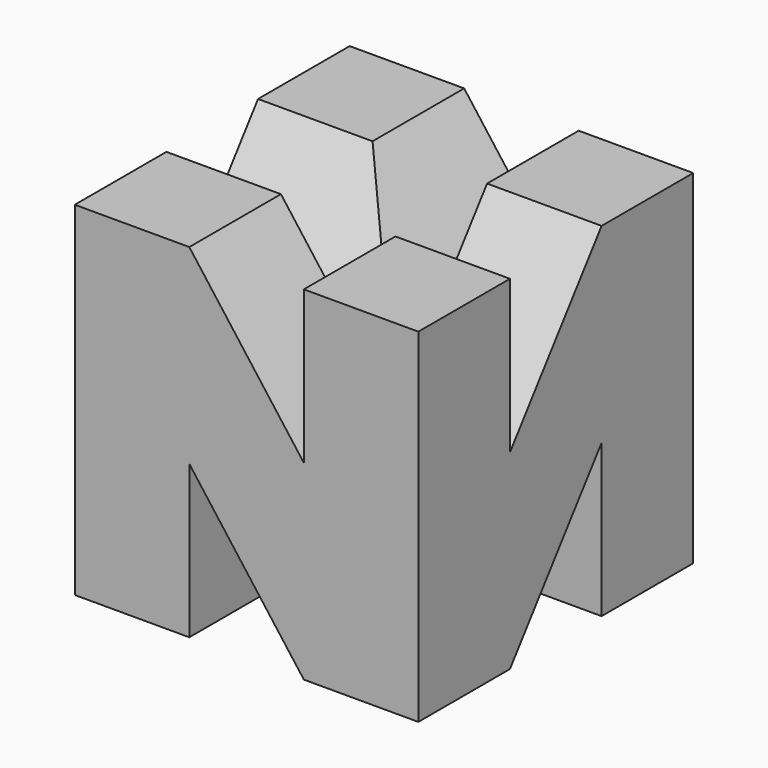
from build123d import *

# Parameters (mm, degrees)
F1_DEPTH = 30
F3_DEPTH = 30.001


with BuildPart() as f1:
    # F0 (on Front) → F1 (new body)
    with BuildSketch(Plane.XZ):
        Polygon((-30, 30), (-30, 0), (-20, 0), (-20, 13.333333), (-10, 0), (0, 0), (0, 30), (-10, 30), (-10, 16.666667), (-20, 30), align=None)
    extrude(amount=F1_DEPTH)

    # F2 (on face) → F3 (cut, through all)
    with BuildSketch(Plane(origin=(-30, 0, 0), x_dir=(0, -1, 0), z_dir=(-1, 0, 0))):
        Polygon((20, 30), (10, 30), (20, 16.666667), align=None)
        Polygon((10, 13.333333), (10, 0), (20, 0), align=None)
    extrude(amount=-F3_DEPTH, mode=Mode.SUBTRACT)


solid = f1.part
